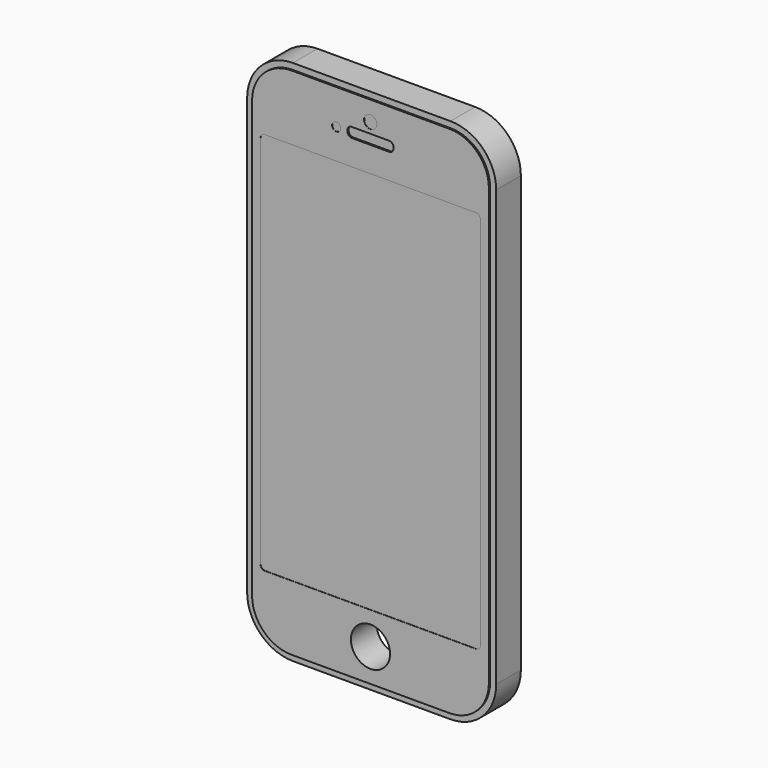
from build123d import *

# Parameters (mm, degrees)
F0_R     = 4.601152
F0_R_2   = 1
F0_R_3   = 1.5
F1_DEPTH = 7.6
F2_DEPTH = 7.25
F3_DEPTH = 7.55
F4_DEPTH = 7.55
F5_DEPTH = 7.55
F6_DEPTH = 7.25
F0_R_4   = 4.190001
F7_DEPTH = 7


with BuildPart() as f1:
    # F0 (on Front) → F1 (new body)
    with BuildSketch(Plane.XZ):
        with BuildLine():
            Line((-18.595, -60.475), (18.595, -60.475))
            ThreePointArc((18.595, -60.475), (25.135738, -57.765738), (27.845, -51.225))
            Line((27.845, -51.225), (27.845, 51.225))
            ThreePointArc((27.845, 51.225), (25.135738, 57.765738), (18.595, 60.475))
            Line((18.595, 60.475), (-18.595, 60.475))
            ThreePointArc((-18.595, 60.475), (-25.135738, 57.765738), (-27.845, 51.225))
            Line((-27.845, 51.225), (-27.845, -51.225))
            ThreePointArc((-27.845, -51.225), (-25.135738, -57.765738), (-18.595, -60.475))
        make_face()
        with Locations((0, -52.765)):
            Circle(F0_R, mode=Mode.SUBTRACT)
        with Locations((-8.015, 52.259863)):
            Circle(F0_R_2, mode=Mode.SUBTRACT)
        with BuildLine():
            ThreePointArc((25.85, -44.15), (25.557107, -44.857107), (24.85, -45.15))
            Line((24.85, -45.15), (-24.85, -45.15))
            ThreePointArc((-24.85, -45.15), (-25.557107, -44.857107), (-25.85, -44.15))
            Line((-25.85, -44.15), (-25.85, 44.15))
            ThreePointArc((-25.85, 44.15), (-25.557107, 44.857107), (-24.85, 45.15))
            Line((-24.85, 45.15), (24.85, 45.15))
            ThreePointArc((24.85, 45.15), (25.557107, 44.857107), (25.85, 44.15))
            Line((25.85, 44.15), (25.85, -44.15))
        make_face(mode=Mode.SUBTRACT)
        with BuildLine():
            Line((-4.405, 53.409863), (4.405, 53.409863))
            ThreePointArc((4.405, 53.409863), (5.112107, 53.11697), (5.405, 52.409863))
            Line((5.405, 52.409863), (5.405, 52.109863))
            ThreePointArc((5.405, 52.109863), (5.112107, 51.402756), (4.405, 51.109863))
            Line((4.405, 51.109863), (-4.405, 51.109863))
            ThreePointArc((-4.405, 51.109863), (-5.112107, 51.402756), (-5.405, 52.109863))
            Line((-5.405, 52.109863), (-5.405, 52.409863))
            ThreePointArc((-5.405, 52.409863), (-5.112107, 53.11697), (-4.405, 53.409863))
        make_face(mode=Mode.SUBTRACT)
        with Locations((0, 55.845)):
            Circle(F0_R_3, mode=Mode.SUBTRACT)
    extrude(amount=F1_DEPTH)

    # F0 (on Front) → F2 (join)
    with BuildSketch(Plane.XZ):
        with BuildLine():
            Line((-18.535, -61.915), (18.535, -61.915))
            ThreePointArc((18.535, -61.915), (26.136398, -58.766398), (29.285, -51.165))
            Line((29.285, -51.165), (29.285, 51.165))
            ThreePointArc((29.285, 51.165), (26.136398, 58.766398), (18.535, 61.915))
            Line((18.535, 61.915), (-18.535, 61.915))
            ThreePointArc((-18.535, 61.915), (-26.136398, 58.766398), (-29.285, 51.165))
            Line((-29.285, 51.165), (-29.285, -51.165))
            ThreePointArc((-29.285, -51.165), (-26.136398, -58.766398), (-18.535, -61.915))
        make_face()
        with BuildLine():
            ThreePointArc((27.845, -51.225), (25.135738, -57.765738), (18.595, -60.475))
            Line((18.595, -60.475), (-18.595, -60.475))
            ThreePointArc((-18.595, -60.475), (-25.135738, -57.765738), (-27.845, -51.225))
            Line((-27.845, -51.225), (-27.845, 51.225))
            ThreePointArc((-27.845, 51.225), (-25.135738, 57.765738), (-18.595, 60.475))
            Line((-18.595, 60.475), (18.595, 60.475))
            ThreePointArc((18.595, 60.475), (25.135738, 57.765738), (27.845, 51.225))
            Line((27.845, 51.225), (27.845, -51.225))
        make_face(mode=Mode.SUBTRACT)
    extrude(amount=F2_DEPTH)

    # F0 (on Front) → F3 (join)
    with BuildSketch(Plane.XZ):
        with BuildLine():
            Line((-24.85, -45.15), (24.85, -45.15))
            ThreePointArc((24.85, -45.15), (25.557107, -44.857107), (25.85, -44.15))
            Line((25.85, -44.15), (25.85, 44.15))
            ThreePointArc((25.85, 44.15), (25.557107, 44.857107), (24.85, 45.15))
            Line((24.85, 45.15), (-24.85, 45.15))
            ThreePointArc((-24.85, 45.15), (-25.557107, 44.857107), (-25.85, 44.15))
            Line((-25.85, 44.15), (-25.85, -44.15))
            ThreePointArc((-25.85, -44.15), (-25.557107, -44.857107), (-24.85, -45.15))
        make_face()
    extrude(amount=F3_DEPTH)

    # F0 (on Front) → F4 (join)
    with BuildSketch(Plane.XZ):
        with Locations((0, 55.845)):
            Circle(F0_R_3)
    extrude(amount=F4_DEPTH)

    # F0 (on Front) → F5 (join)
    with BuildSketch(Plane.XZ):
        with Locations((-8.015, 52.259863)):
            Circle(F0_R_2)
    extrude(amount=F5_DEPTH)

    # F0 (on Front) → F6 (join)
    with BuildSketch(Plane.XZ):
        with BuildLine():
            ThreePointArc((5.405, 52.409863), (5.112107, 53.11697), (4.405, 53.409863))
            Line((4.405, 53.409863), (-4.405, 53.409863))
            ThreePointArc((-4.405, 53.409863), (-5.112107, 53.11697), (-5.405, 52.409863))
            Line((-5.405, 52.409863), (-5.405, 52.109863))
            ThreePointArc((-5.405, 52.109863), (-5.112107, 51.402756), (-4.405, 51.109863))
            Line((-4.405, 51.109863), (4.405, 51.109863))
            ThreePointArc((4.405, 51.109863), (5.112107, 51.402756), (5.405, 52.109863))
            Line((5.405, 52.109863), (5.405, 52.409863))
        make_face()
    extrude(amount=F6_DEPTH)


with BuildPart() as f7:
    # F0 (on Front) → F7 (new body)
    with BuildSketch(Plane.XZ):
        with Locations((0, -52.765)):
            Circle(F0_R_4)
    extrude(amount=F7_DEPTH)


solid = f1.part
